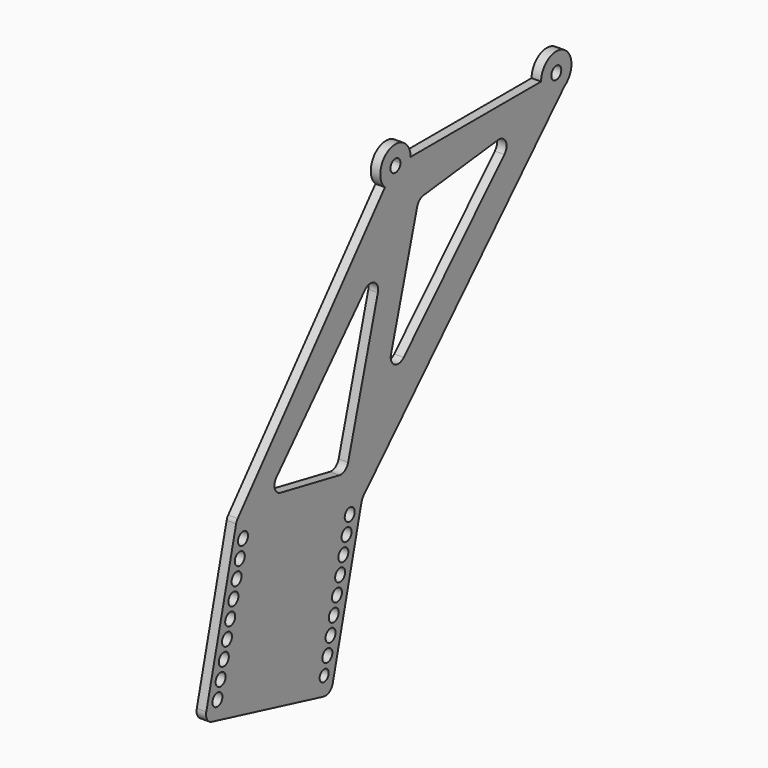
from build123d import *

# Parameters (mm, degrees)
F0_R     = 3.3
F0_R_2   = 3
F1_DEPTH = 5


with BuildPart() as f1:
    # F0 (on Right) → F1 (new body)
    with BuildSketch(Plane.YZ):
        with BuildLine():
            ThreePointArc((-0.696319, -3.2257), (2.072697, -2.567864), (3.3, 0))
            ThreePointArc((3.3, 0), (-2.072697, 2.567864), (-0.696319, -3.2257))
        make_face()
        with BuildLine():
            Line((96, 0), (10, 0))
            ThreePointArc((10, 0), (-3.924743, 9.19763), (-6.919278, -7.219667))
            Line((-6.919278, -7.219667), (-103.964244, -121.532373))
            ThreePointArc((-103.964244, -121.532373), (-104.60244, -122.48824), (-105.005509, -123.564582))
            Line((-105.005509, -123.564582), (-124.682536, -202.896739))
            ThreePointArc((-124.682536, -202.896739), (-124.112279, -206.680846), (-121.033279, -208.953382))
            Line((-121.033279, -208.953382), (-47.388399, -227.219774))
            ThreePointArc((-47.388399, -227.219774), (-43.604291, -226.649518), (-41.331755, -223.570518))
            Line((-41.331755, -223.570518), (-24.973072, -157.616973))
            Line((-24.973072, -157.616973), (-22.323199, -146.93344))
            ThreePointArc((-22.323199, -146.93344), (-21.840753, -145.708412), (-21.055266, -144.651786))
            Line((-21.055266, -144.651786), (111.379675, -8.429656))
            ThreePointArc((111.379675, -8.429656), (110.806415, 8.769172), (96, 0))
        make_face()
        with Locations((-117.340004, -200.158417)):
            Circle(F0_R, mode=Mode.SUBTRACT)
        with Locations((-115.23354, -191.665755)):
            Circle(F0_R, mode=Mode.SUBTRACT)
        with Locations((-113.127076, -183.173092)):
            Circle(F0_R, mode=Mode.SUBTRACT)
        with Locations((-111.020612, -174.68043)):
            Circle(F0_R, mode=Mode.SUBTRACT)
        with Locations((-46.97488, -217.611319)):
            Circle(F0_R_2, mode=Mode.SUBTRACT)
        with Locations((-44.868416, -209.118657)):
            Circle(F0_R, mode=Mode.SUBTRACT)
        with Locations((-42.761952, -200.625995)):
            Circle(F0_R, mode=Mode.SUBTRACT)
        with Locations((-40.655488, -192.133333)):
            Circle(F0_R, mode=Mode.SUBTRACT)
        with Locations((-38.549024, -183.640671)):
            Circle(F0_R, mode=Mode.SUBTRACT)
        with Locations((-36.44256, -175.148009)):
            Circle(F0_R, mode=Mode.SUBTRACT)
        with Locations((-108.914148, -166.187768)):
            Circle(F0_R, mode=Mode.SUBTRACT)
        with Locations((-106.807684, -157.695106)):
            Circle(F0_R, mode=Mode.SUBTRACT)
        with Locations((-104.70122, -149.202444)):
            Circle(F0_R, mode=Mode.SUBTRACT)
        with Locations((-102.594756, -140.709782)):
            Circle(F0_R, mode=Mode.SUBTRACT)
        with Locations((-100.488292, -132.21712)):
            Circle(F0_R, mode=Mode.SUBTRACT)
        with Locations((-34.336096, -166.655347)):
            Circle(F0_R, mode=Mode.SUBTRACT)
        with Locations((-32.229632, -158.162684)):
            Circle(F0_R, mode=Mode.SUBTRACT)
        with Locations((-30.123167, -149.670022)):
            Circle(F0_R, mode=Mode.SUBTRACT)
        with BuildLine():
            Line((-11.598249, -54.275388), (-31.184434, -125.098919))
            ThreePointArc((-31.184434, -125.098919), (-33.376531, -128.020463), (-36.970478, -128.671811))
            Line((-36.970478, -128.671811), (-75.707845, -121.03641))
            ThreePointArc((-75.707845, -121.03641), (-79.494278, -117.681777), (-78.415046, -112.73952))
            Line((-78.415046, -112.73952), (-20.091494, -49.55139))
            ThreePointArc((-20.091494, -49.55139), (-13.986974, -48.573088), (-11.598249, -54.275388))
        make_face(mode=Mode.SUBTRACT)
        with BuildLine():
            ThreePointArc((5.447105, -91.25529), (-0.622742, -92.067117), (-2.926005, -86.392871))
            Line((-2.926005, -86.392871), (14.328684, -24.881682))
            ThreePointArc((14.328684, -24.881682), (15.896619, -22.42924), (18.564757, -21.265655))
            Line((18.564757, -21.265655), (67.64773, -15.552312))
            ThreePointArc((67.64773, -15.552312), (72.719425, -18.326143), (71.784767, -24.030759))
            Line((71.784767, -24.030759), (5.447105, -91.25529))
        make_face(mode=Mode.SUBTRACT)
        with BuildLine():
            ThreePointArc((-0.696319, -3.2257), (-2.072697, 2.567864), (3.3, 0))
            ThreePointArc((3.3, 0), (2.072697, -2.567864), (-0.696319, -3.2257))
        make_face(mode=Mode.SUBTRACT)
        with BuildLine():
            ThreePointArc((102.7, 0), (106, 3.3), (109.3, 0))
            ThreePointArc((109.3, 0), (106, -3.3), (102.7, 0))
        make_face(mode=Mode.SUBTRACT)
    extrude(amount=F1_DEPTH)


solid = f1.part
